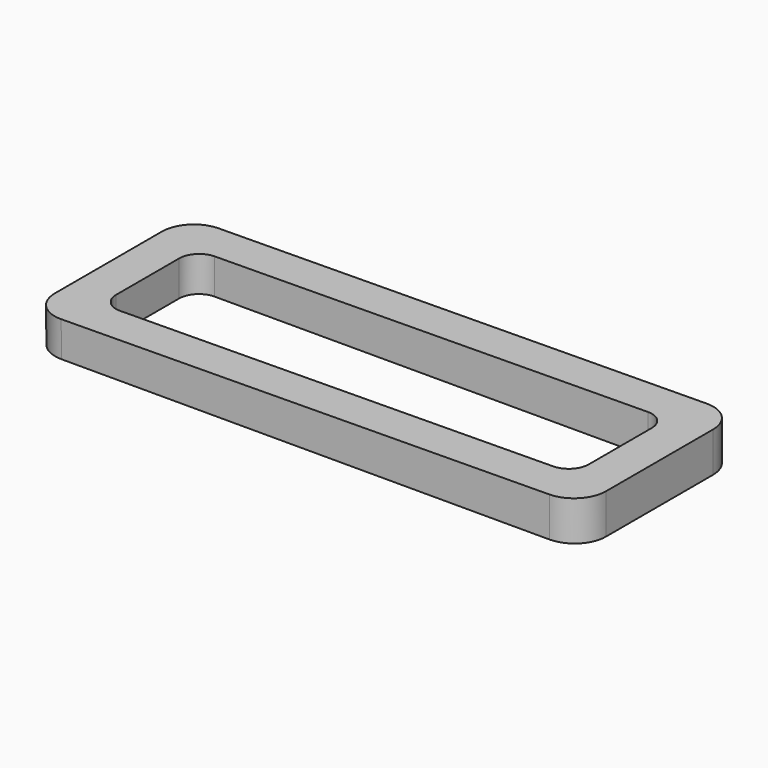
from build123d import *

# Parameters (mm, degrees)
F3_DEPTH = 31.75
F5_DEPTH = 6.444662
F6_R     = 5.08


with BuildPart() as f3:
    # F2 (on Front) → F3 (new body)
    with BuildSketch(Plane.XZ):
        Polygon((444.5, 0), (444.5, 6.443663), (355.548608, 5.631981), (355.6, 0), align=None)
    extrude(amount=F3_DEPTH)

    # F4 (on face) → F5 (cut, through all)
    with BuildSketch(Plane(origin=(0, 0, 0), x_dir=(1, 0, 0), z_dir=(0, 0, -1))):
        with BuildLine():
            Line((434.975, 25.4), (365.073608, 25.4))
            ThreePointArc((365.073608, 25.4), (362.828544, 24.470064), (361.898608, 22.225))
            Line((361.898608, 22.225), (361.898608, 9.525))
            ThreePointArc((361.898608, 9.525), (362.828544, 7.279936), (365.073608, 6.35))
            Line((365.073608, 6.35), (434.975, 6.35))
            ThreePointArc((434.975, 6.35), (437.220064, 7.279936), (438.15, 9.525))
            Line((438.15, 9.525), (438.15, 22.225))
            ThreePointArc((438.15, 22.225), (437.220064, 24.470064), (434.975, 25.4))
        make_face()
    extrude(amount=-F5_DEPTH, mode=Mode.SUBTRACT)

    # F6
    f6_edges = [f3.edges().sort_by_distance(p)[0] for p in [
        (444.5, -31.75, 3.221831),
        (355.574304, -31.75, 2.815991),
        (355.574304, 0, 2.815991),
        (444.5, 0, 3.221831),
    ]]
    fillet(f6_edges, radius=F6_R)


solid = f3.part
